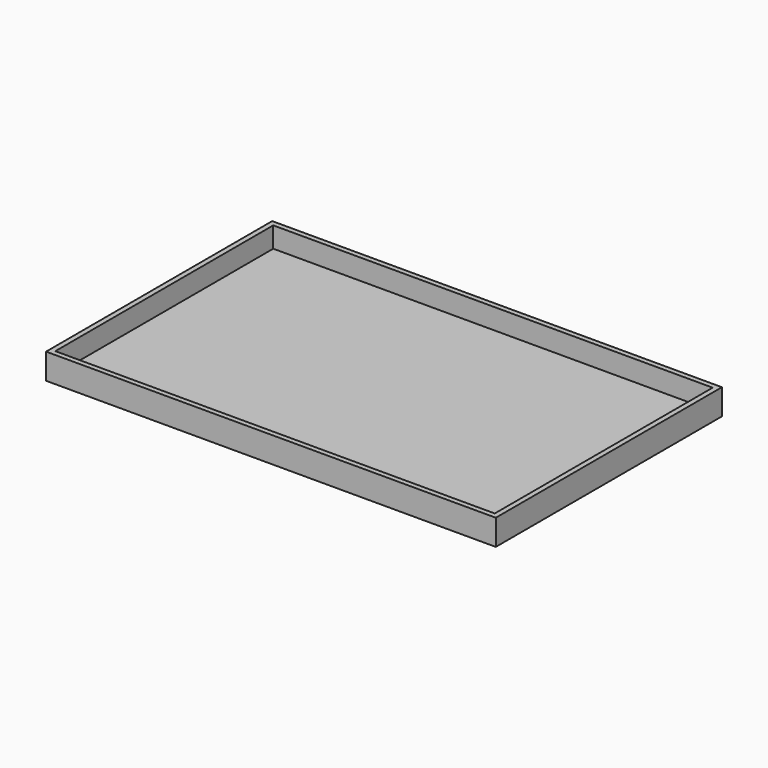
from build123d import *

# Parameters (mm, degrees)
F0_W     = 222.25
F0_H     = 139.7
F1_DEPTH = 12.7
F2_DEPTH = 12.7
F3_T     = -2.54


with BuildPart() as f1:
    # F0 (on Top) → F1 (new body)
    with BuildSketch(Plane.XY):
        with Locations((1.78089, -31.92896)):
            Rectangle(F0_W, F0_H)
    extrude(amount=F1_DEPTH)

    # F0 (on Top) → F2 (join)
    with BuildSketch(Plane.XY):
        with Locations((1.78089, -31.92896)):
            Rectangle(F0_W, F0_H)
    extrude(amount=F2_DEPTH)

    # F3
    f3_openings = [f1.faces().sort_by_distance(p)[0] for p in [
        (1.78089, -31.92896, 12.7),
    ]]
    offset(amount=F3_T, openings=f3_openings)


solid = f1.part
